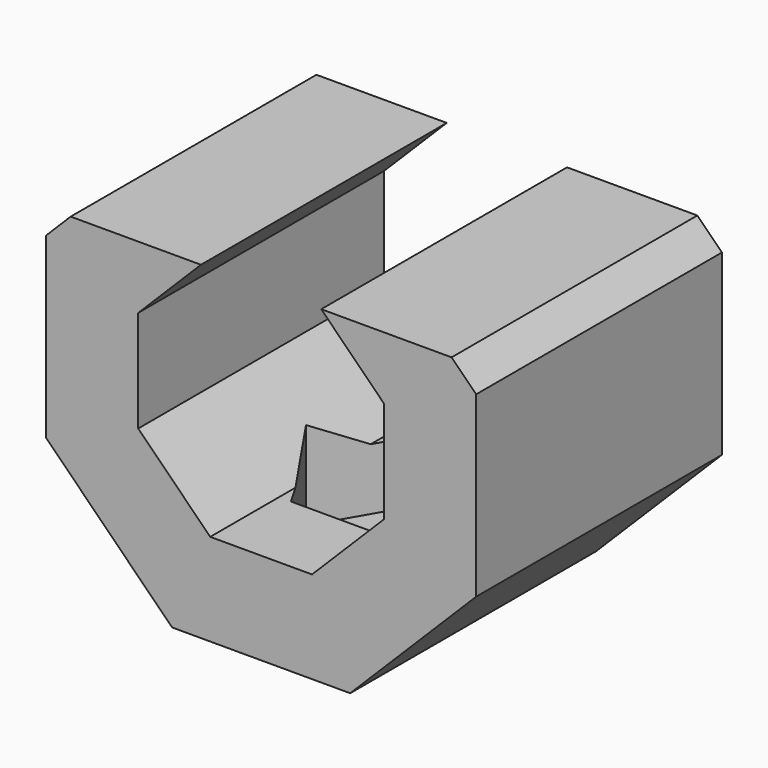
from build123d import *

# Parameters (mm, degrees)
F1_DEPTH      = 25
F2_W          = 35
F2_H          = 10
F3_DEPTH      = 40
F5_DEPTH      = 5
F5_DEPTH_BACK = 5
F6_R          = 3
F7_DEPTH      = 25


with BuildPart() as f1:
    # F0 (on Front) → F1 (new body)
    with BuildSketch(Plane.XZ):
        Polygon((17.5, -7.2487373415), (17.5, 7.2487373415), (7.2487373415, 17.5), (-7.2487373415, 17.5), (-17.5, 7.2487373415), (-17.5, -7.2487373415), (-7.2487373415, -17.5), (7.2487373415, -17.5), align=None)
        Polygon((4.1421356237, 10), (10, 4.1421356237), (10, -4.1421356237), (4.1421356237, -10), (-4.1421356237, -10), (-10, -4.1421356237), (-10, 4.1421356237), (-4.1421356237, 10), align=None, mode=Mode.SUBTRACT)
    extrude(amount=F1_DEPTH)

    # F2 (on face) → F3 (cut)
    with BuildSketch(Plane.XZ.offset(25)):
        with Locations((0, 14.2487373415)):
            Rectangle(F2_W, F2_H)
    extrude(amount=-F3_DEPTH, mode=Mode.SUBTRACT)

    # F4 (on face) → F5 (cut, two sides)
    with BuildSketch(Plane.XY.offset(-10)) as f5_sk:
        Polygon((3.1754264805, -7), (-3.1754264805, -7), (-6.3508529611, -12.5), (-3.1754264805, -18), (3.1754264805, -18), (6.3508529611, -12.5), align=None)
    extrude(amount=-F5_DEPTH, mode=Mode.SUBTRACT)
    extrude(f5_sk.sketch, amount=F5_DEPTH_BACK, mode=Mode.SUBTRACT)

    # F6 (on face) → F7 (cut)
    with BuildSketch(Plane(origin=(0, 0, -17.5), x_dir=(1, 0, 0), z_dir=(0, 0, -1))):
        with Locations((0, 12.5)):
            Circle(F6_R)
    extrude(amount=-F7_DEPTH, mode=Mode.SUBTRACT)


solid = f1.part
